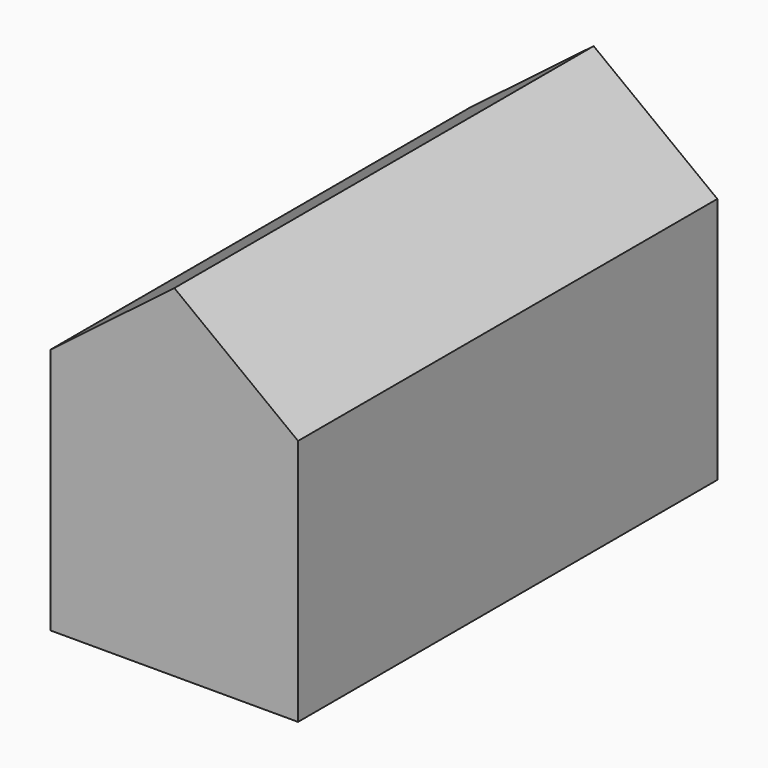
from build123d import *

# Parameters (mm, degrees)
F0_W     = 119.885028
F0_H     = 119.885028
F1_DEPTH = 254
F2_W     = 109.586086
F2_H     = 111.699324
F3_DEPTH = 247.65
F4_W     = 31.353211
F4_H     = 60.86609
F5_DEPTH = 25.4
F6_W     = 116.465766
F6_H     = 116.456397
F7_DEPTH = 6.35
F8_W     = 32.10051
F8_H     = 42.383331
F9_DEPTH = 6.35


with BuildPart() as f1:
    # F0 (on Front) → F1 (new body)
    with BuildSketch(Plane.XZ):
        Polygon((-16.225174, 121.46537), (-76.167688, 75.748228), (43.71734, 75.748228), align=None)
        with Locations((-16.225174, 15.805714)):
            Rectangle(F0_W, F0_H)
    extrude(amount=F1_DEPTH)

    # F2 (on face) → F3 (cut)
    with BuildSketch(Plane(origin=(0, 0, 0), x_dir=(-1, 0, 0), z_dir=(0, 1, 0))):
        with Locations((17.105127, 17.154949)):
            Rectangle(F2_W, F2_H)
    extrude(amount=-F3_DEPTH, mode=Mode.SUBTRACT)

    # F4 (on face) → F5 (cut)
    with BuildSketch(Plane(origin=(-76.167688, 0, 0), x_dir=(0, -1, 0), z_dir=(-1, 0, 0))):
        with Locations((30.565259, -13.703755)):
            Rectangle(F4_W, F4_H)
    extrude(amount=-F5_DEPTH, mode=Mode.SUBTRACT)

    # F6 (on Front) → F7 (join)
    with BuildSketch(Plane.XZ):
        with Locations((-15.793322, 16.630638)):
            Rectangle(F6_W, F6_H)
    extrude(amount=F7_DEPTH)

    # F8 (on face) → F9 (join)
    with BuildSketch(Plane(origin=(0, 0, -44.1368), x_dir=(1, 0, 0), z_dir=(0, 0, -1))):
        with Locations((-60.117433, 31.530009)):
            Rectangle(F8_W, F8_H)
    extrude(amount=-F9_DEPTH)


solid = f1.part
